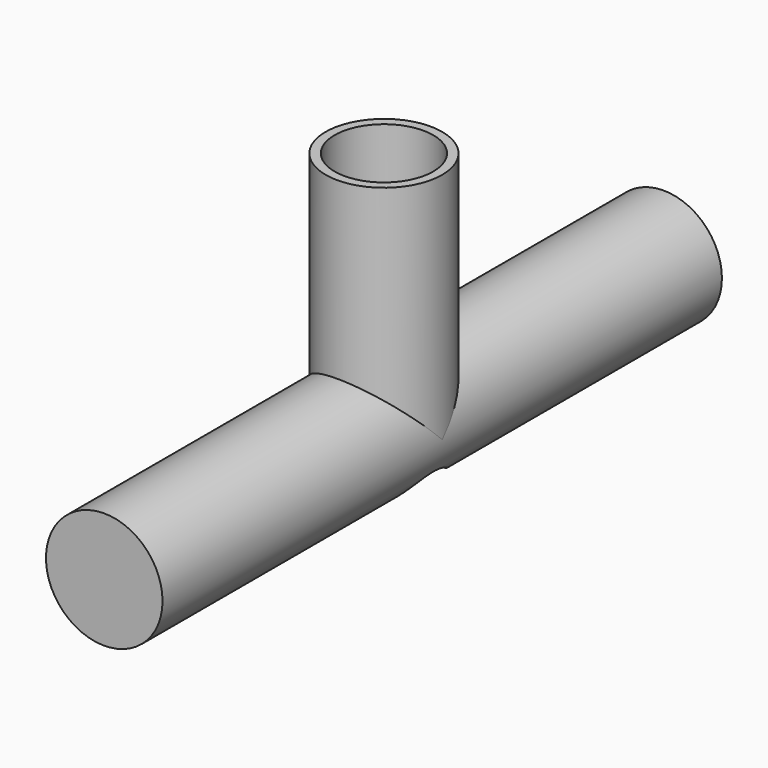
from build123d import *

# Parameters (mm, degrees)
F0_R     = 12.7
F1_DEPTH = 76.2
F2_R     = 12.7
F3_DEPTH = 50.8
F4_R     = 10.74617
F5_DEPTH = 63.501


with BuildPart() as f1:
    # F0 (on Front) → F1 (new body, symmetric)
    with BuildSketch(Plane.XZ):
        Circle(F0_R)
    extrude(amount=F1_DEPTH, both=True)

    # F2 (on Top) → F3 (join)
    with BuildSketch(Plane.XY):
        Circle(F2_R)
    extrude(amount=F3_DEPTH)

    # F4 (on face) → F5 (cut, through all)
    with BuildSketch(Plane.XY.offset(50.8)):
        Circle(F4_R)
    extrude(amount=-F5_DEPTH, mode=Mode.SUBTRACT)


solid = f1.part
